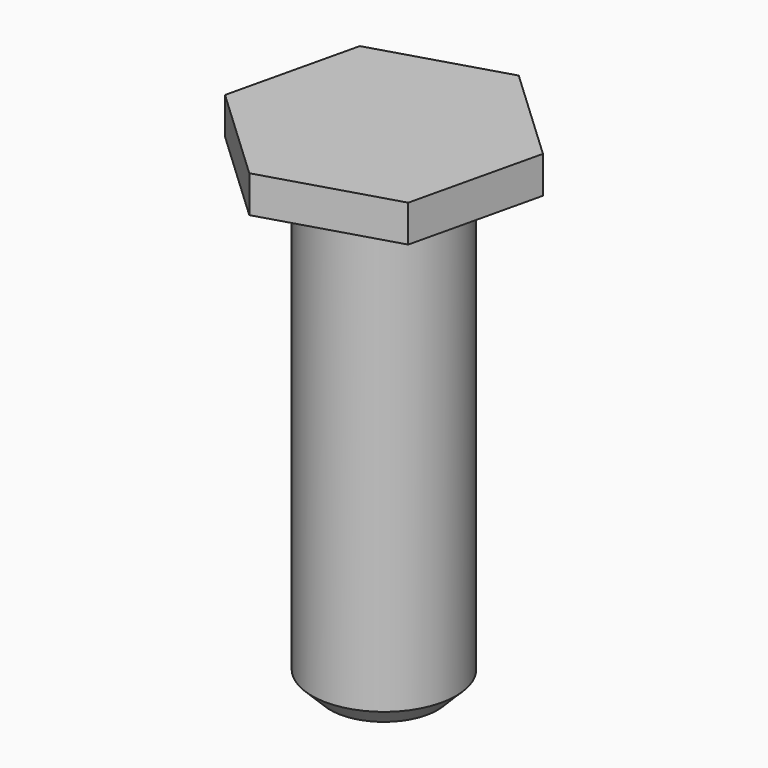
from build123d import *

# Parameters (mm, degrees)
F0_R      = 3.91
F1_DEPTH  = 25
F1_FACE_R = 3.91
F2_DEPTH  = 2
F3_SIZE   = 1


with BuildPart() as f1:
    # F0 (on Top) → F1 (new body)
    with BuildSketch(Plane.XY):
        Circle(F0_R)
    extrude(amount=-F1_DEPTH)

    # F0 (on Top) + F1_face (on face) → F2 (join)
    with BuildSketch(Plane.XY):
        Polygon((5.284141717, -4.9639043418), (6.9409381205, 2.0942487932), (1.6567964035, 7.058153135), (-5.284141717, 4.9639043418), (-6.9409381205, -2.0942487932), (-1.6567964035, -7.058153135), align=None)
        Circle(F0_R, mode=Mode.SUBTRACT)
    with BuildSketch(Plane.XY):
        Circle(F1_FACE_R)
    extrude(amount=F2_DEPTH)

    # F3
    f3_edges = [f1.edges().sort_by_distance(p)[0] for p in [
        (-3.91, 0, -25),
    ]]
    chamfer(f3_edges, length=F3_SIZE)


solid = f1.part
